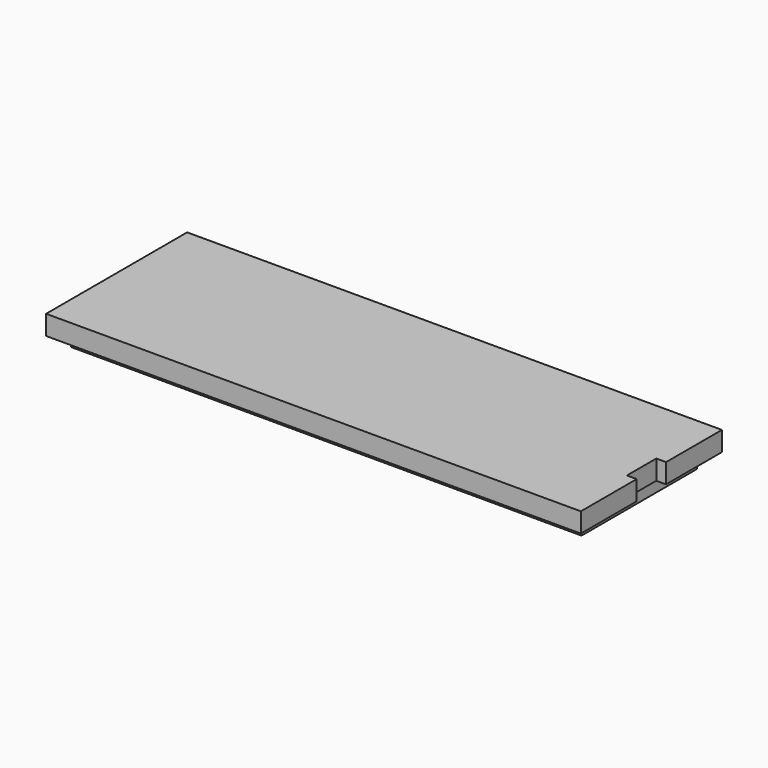
from build123d import *

# Parameters (mm, degrees)
F0_W     = 55.5
F0_H     = 18.3
F1_DEPTH = 2.032
F2_W     = 1.016
F2_H     = 3.81
F3_DEPTH = 2.286
F4_W     = 53
F4_H     = 15
F4_W_2   = 50.46
F4_H_2   = 12.46
F5_DEPTH = 1.27


with BuildPart() as f1:
    # F0 (on Top) → F1 (new body)
    with BuildSketch(Plane.XY):
        with Locations((18.105972, -2.473817)):
            Rectangle(F0_W, F0_H)
    extrude(amount=F1_DEPTH)

    # F2 (on face) → F3 (cut)
    with BuildSketch(Plane.XY.offset(2.032)):
        with Locations((45.347972, -2.473817)):
            Rectangle(F2_W, F2_H)
    extrude(amount=-F3_DEPTH, mode=Mode.SUBTRACT)

    # F4 (on face) → F5 (join)
    with BuildSketch(Plane(origin=(0, 0, 0), x_dir=(1, 0, 0), z_dir=(0, 0, -1))):
        with Locations((18.105972, 2.473817)):
            Rectangle(F4_W, F4_H)
        with Locations((18.105972, 2.473817)):
            Rectangle(F4_W_2, F4_H_2, mode=Mode.SUBTRACT)
    extrude(amount=F5_DEPTH)


solid = f1.part
